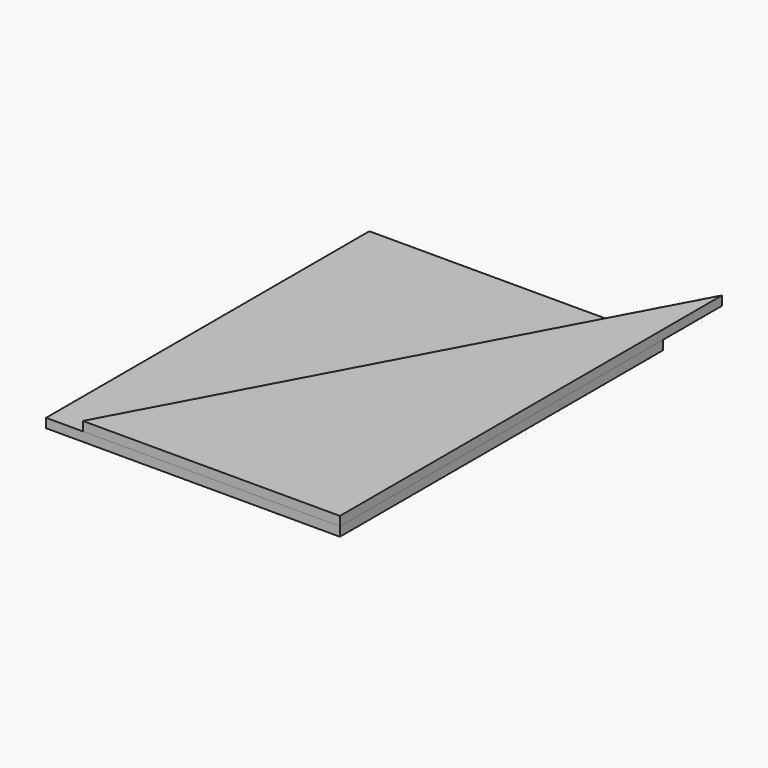
from build123d import *

# Parameters (mm, degrees)
F0_W     = 160
F0_H     = 220
F1_DEPTH = 5
F3_DEPTH = 5


with BuildPart() as f1:
    # F0 (on Top) → F1 (new body)
    with BuildSketch(Plane.XY):
        Rectangle(F0_W, F0_H)
    extrude(amount=F1_DEPTH)


with BuildPart() as f3:
    # F2 (on face) → F3 (new body)
    with BuildSketch(Plane.XY.offset(5)):
        Polygon((-60, -110), (80, -110), (80, 150), align=None)
    extrude(amount=F3_DEPTH)


solid = Compound([f1.part, f3.part])
